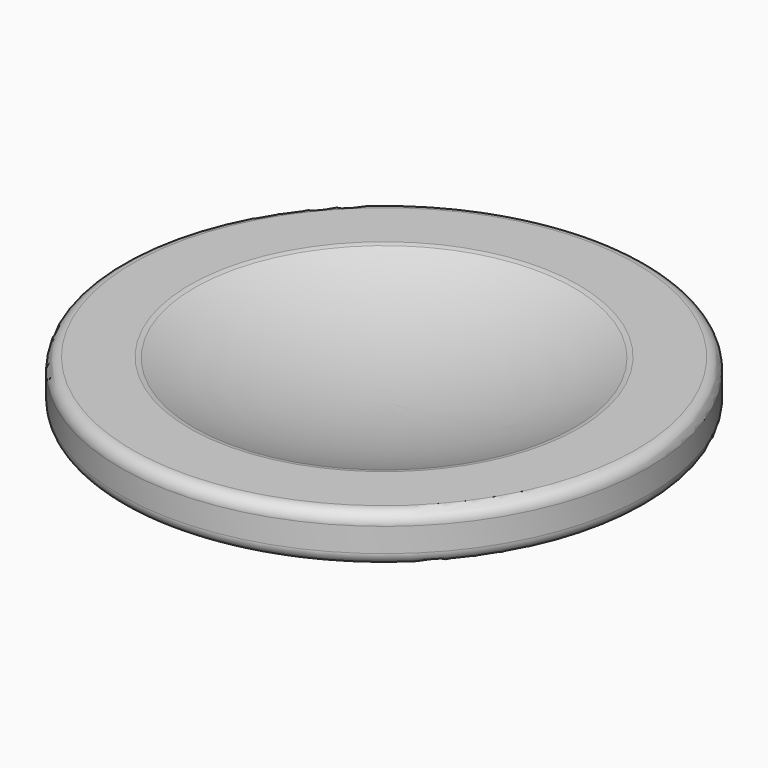
from build123d import *

# Parameters (mm, degrees)
F2_R = 0.5


with BuildPart() as f1:
    # F0 (on Front) → F1 (revolve)
    with BuildSketch(Plane.XZ):
        with BuildLine():
            ThreePointArc((8, 3.669697), (4.086193, 2.421874), (0, 2))
            Line((0, 2), (0, 0))
            ThreePointArc((0, 0), (4.285635, 0.421461), (8.407068, 1.669697))
            Line((8.407068, 1.669697), (11, 1.669697))
            Line((11, 1.669697), (11, 3.669697))
            Line((11, 3.669697), (8, 3.669697))
        make_face()
    revolve(axis=Axis((0, 0, 1), (0, 0, -1)))

    # F2
    f2_edges = [f1.edges().sort_by_distance(p)[0] for p in [
        (-11, 0, 3.669697),
        (-8, 0, 3.669697),
        (-11, 0, 1.669697),
        (-8.407068, 0, 1.669697),
    ]]
    fillet(f2_edges, radius=F2_R)


solid = f1.part
